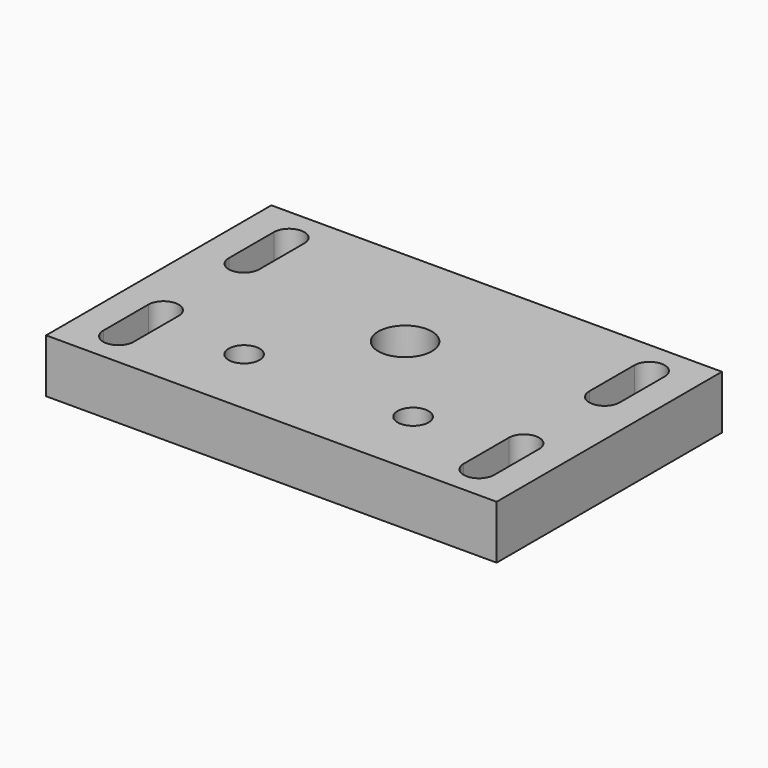
from build123d import *

# Parameters (mm, degrees)
F0_W           = 80
F0_H           = 50
F1_DEPTH       = 9.525
F4_DEPTH       = 25
F5_R           = 4.7625
F6_DEPTH       = 9.526
F7_D           = 5.5
F7_CBORE_D     = 9.75
F7_CBORE_DEPTH = 5


with BuildPart() as f1:
    # F0 (on Top) → F1 (new body)
    with BuildSketch(Plane.XY):
        Rectangle(F0_W, F0_H)
    extrude(amount=F1_DEPTH)

    # F3 (on face) → F4 (cut)
    with BuildSketch(Plane.XY.offset(9.525)):
        with BuildLine():
            ThreePointArc((-29.3, 18.9330952615), (-32, 21.6330952615), (-34.7, 18.9330952615))
            Line((-34.7, 18.9330952615), (-34.7, 8.9330952615))
            ThreePointArc((-34.7, 8.9330952615), (-32, 6.2330952615), (-29.3, 8.9330952615))
            Line((-29.3, 8.9330952615), (-29.3, 18.9330952615))
        make_face()
        with BuildLine():
            ThreePointArc((-34.7, -18.9330952615), (-32, -21.6330952615), (-29.3, -18.9330952615))
            Line((-29.3, -18.9330952615), (-29.3, -8.9330952615))
            ThreePointArc((-29.3, -8.9330952615), (-32, -6.2330952615), (-34.7, -8.9330952615))
            Line((-34.7, -8.9330952615), (-34.7, -18.9330952615))
        make_face()
        with BuildLine():
            ThreePointArc((29.3, -18.9330952615), (32, -21.6330952615), (34.7, -18.9330952615))
            Line((34.7, -18.9330952615), (34.7, -8.9330952615))
            ThreePointArc((34.7, -8.9330952615), (32, -6.2330952615), (29.3, -8.9330952615))
            Line((29.3, -8.9330952615), (29.3, -18.9330952615))
        make_face()
        with BuildLine():
            ThreePointArc((34.7, 18.9330952615), (32, 21.6330952615), (29.3, 18.9330952615))
            Line((29.3, 18.9330952615), (29.3, 8.9330952615))
            ThreePointArc((29.3, 8.9330952615), (32, 6.2330952615), (34.7, 8.9330952615))
            Line((34.7, 8.9330952615), (34.7, 18.9330952615))
        make_face()
    extrude(amount=-F4_DEPTH, mode=Mode.SUBTRACT)

    # F5 (on face) → F6 (cut, through all)
    with BuildSketch(Plane.XY.offset(9.525)):
        with Locations((0, 4.68)):
            Circle(F5_R)
    extrude(amount=-F6_DEPTH, mode=Mode.SUBTRACT)

    # F7 (through all)
    with Locations(Plane(origin=(0, 0, 0), x_dir=(1, 0, 0), z_dir=(0, 0, -1))):
        with Locations((-15, 12.3), (15, 12.3)):
            CounterBoreHole(F7_D / 2, F7_CBORE_D / 2, F7_CBORE_DEPTH)


solid = f1.part
